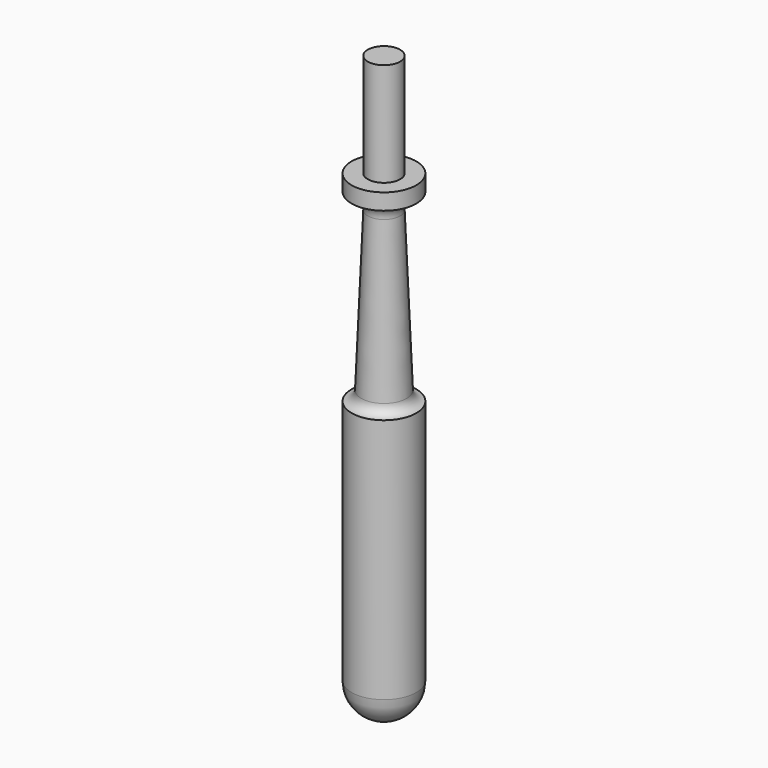
from build123d import *


with BuildPart() as f1:
    # F0 (on Front) → F1 (revolve)
    with BuildSketch(Plane.XZ):
        with BuildLine():
            Line((-48.432033, -5.520982), (-48.432033, -43.520982))
            ThreePointArc((-48.432033, -43.520982), (-46.967567, -47.056516), (-43.432033, -48.520982))
            Line((-43.432033, -48.520982), (-43.432033, -43.520982))
            Line((-43.432033, -43.520982), (-43.432033, 22.979018))
            Line((-43.432033, 22.979018), (-43.432033, 25.479018))
            Line((-43.432033, 25.479018), (-43.432033, 41.479018))
            Line((-43.432033, 41.479018), (-45.932045, 41.479018))
            Line((-45.932045, 41.479018), (-45.932045, 25.479018))
            Line((-45.932045, 25.479018), (-48.432045, 25.479018))
            Line((-48.432045, 25.479018), (-48.432045, 22.979018))
            ThreePointArc((-48.432045, 22.979018), (-46.634149, 22.276914), (-45.932045, 20.479018))
            Line((-45.932045, 20.479018), (-46.932033, -4.020982))
            ThreePointArc((-46.932033, -4.020982), (-47.389147, -5.063868), (-48.432033, -5.520982))
        make_face()
    revolve(axis=Axis((-43.432033, 0, -10.270982), (0, 0, 1)))


solid = f1.part
